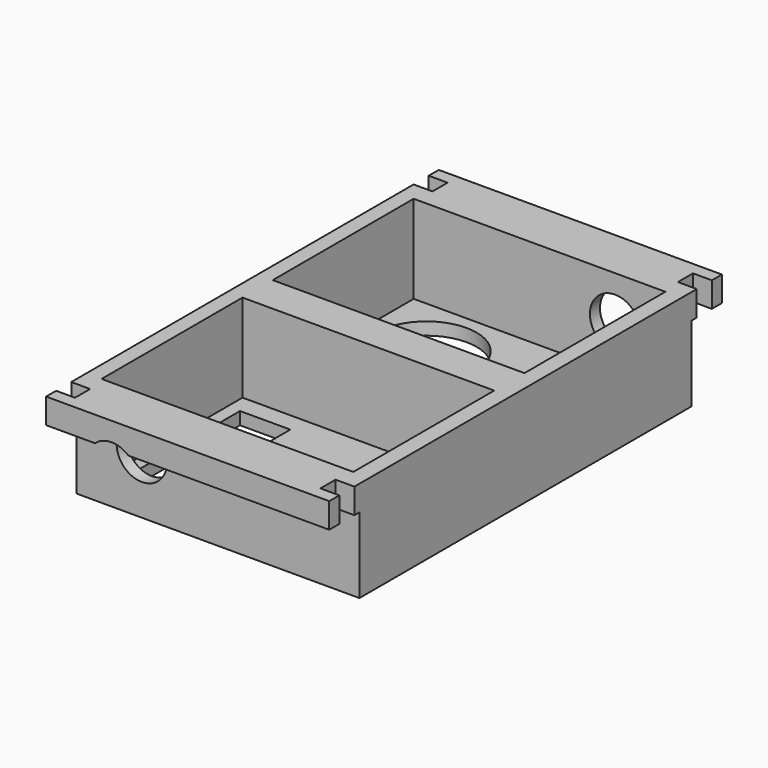
from build123d import *

# Parameters (mm, degrees)
F0_W      = 71.4248
F0_H      = 123.825
F1_DEPTH  = 25.4
F2_W      = 63.5
F2_H      = 44.45
F3_DEPTH  = 22.225
F4_W      = 4.7625
F4_H      = 25.4
F5_DEPTH  = 4.7625
F6_W      = 4.7625
F6_H      = 25.4
F7_DEPTH  = 4.7625
F9_DEPTH  = 19.05
F11_DEPTH = 19.05
F12_R     = 12.7
F12_W     = 12.7
F12_H     = 34.925
F13_DEPTH = 6.35
F14_R     = 6.35
F15_DEPTH = 25.4
F16_R     = 6.35
F17_DEPTH = 25.4


with BuildPart() as f1:
    # F0 (on Top) → F1 (new body)
    with BuildSketch(Plane.XY):
        with Locations((2.37449, 5.994919)):
            Rectangle(F0_W, F0_H)
    extrude(amount=F1_DEPTH)

    # F2 (on face) → F3 (cut)
    with BuildSketch(Plane.XY.offset(25.4)):
        with Locations((2.24492, 32.982419)):
            Rectangle(F2_W, F2_H)
        with Locations((2.24492, -20.992581)):
            Rectangle(F2_W, F2_H)
    extrude(amount=-F3_DEPTH, mode=Mode.SUBTRACT)

    # F4 (on face) → F5 (cut)
    with BuildSketch(Plane.YZ.offset(38.08689)):
        with Locations((62.351169, 12.7)):
            Rectangle(F4_W, F4_H)
        with Locations((-50.361331, 12.7)):
            Rectangle(F4_W, F4_H)
    extrude(amount=-F5_DEPTH, mode=Mode.SUBTRACT)

    # F6 (on face) → F7 (cut)
    with BuildSketch(Plane(origin=(-33.33791, 0, 0), x_dir=(0, -1, 0), z_dir=(-1, 0, 0))):
        with Locations((-62.351169, 12.7)):
            Rectangle(F6_W, F6_H)
        with Locations((50.361331, 12.7)):
            Rectangle(F6_W, F6_H)
    extrude(amount=-F7_DEPTH, mode=Mode.SUBTRACT)

    # F8 (on face) → F9 (cut)
    with BuildSketch(Plane(origin=(0, 0, 0), x_dir=(1, 0, 0), z_dir=(0, 0, -1))):
        Polygon((-33.33791, -67.907419), (38.08689, -67.907419), (38.08689, -64.732419), (33.32439, -64.732419), (33.32439, -59.969919), (38.08689, -59.969919), (38.08689, -58.382419), (-33.33791, -58.382419), (-33.33791, -59.969919), (-28.57541, -59.969919), (-28.57541, -64.732419), (-33.33791, -64.732419), align=None)
    extrude(amount=-F9_DEPTH, mode=Mode.SUBTRACT)

    # F10 (on face) → F11 (cut)
    with BuildSketch(Plane(origin=(0, 0, 0), x_dir=(1, 0, 0), z_dir=(0, 0, -1))):
        Polygon((38.08689, 52.742581), (38.08689, 55.917581), (-33.33791, 55.917581), (-33.33791, 52.742581), (-28.57541, 52.742581), (-28.57541, 47.980081), (-33.33791, 47.980081), (-33.33791, 46.392581), (38.08689, 46.392581), (38.08689, 47.980081), (33.32439, 47.980081), (33.32439, 52.742581), align=None)
    extrude(amount=-F11_DEPTH, mode=Mode.SUBTRACT)

    # F12 (on face) → F13 (cut)
    with BuildSketch(Plane.XY.offset(3.175)):
        with Locations((-13.63008, 39.332419)):
            Circle(F12_R)
        with Locations((24.46992, 32.982419)):
            Rectangle(F12_W, F12_H)
        with Locations((-19.98008, -20.992581)):
            Rectangle(F12_W, F12_H)
        with Locations((18.11992, -27.342581)):
            Circle(F12_R)
    extrude(amount=-F13_DEPTH, mode=Mode.SUBTRACT)

    # F14 (on face) → F15 (cut)
    with BuildSketch(Plane.XZ.offset(-55.207419)):
        with Locations((21.29492, 14.2875)):
            Circle(F14_R)
    extrude(amount=-F15_DEPTH, mode=Mode.SUBTRACT)

    # F16 (on face) → F17 (cut)
    with BuildSketch(Plane(origin=(0, -43.217581, 0), x_dir=(-1, 0, 0), z_dir=(0, 1, 0))):
        with Locations((16.80508, 14.2875)):
            Circle(F16_R)
    extrude(amount=-F17_DEPTH, mode=Mode.SUBTRACT)


solid = f1.part
